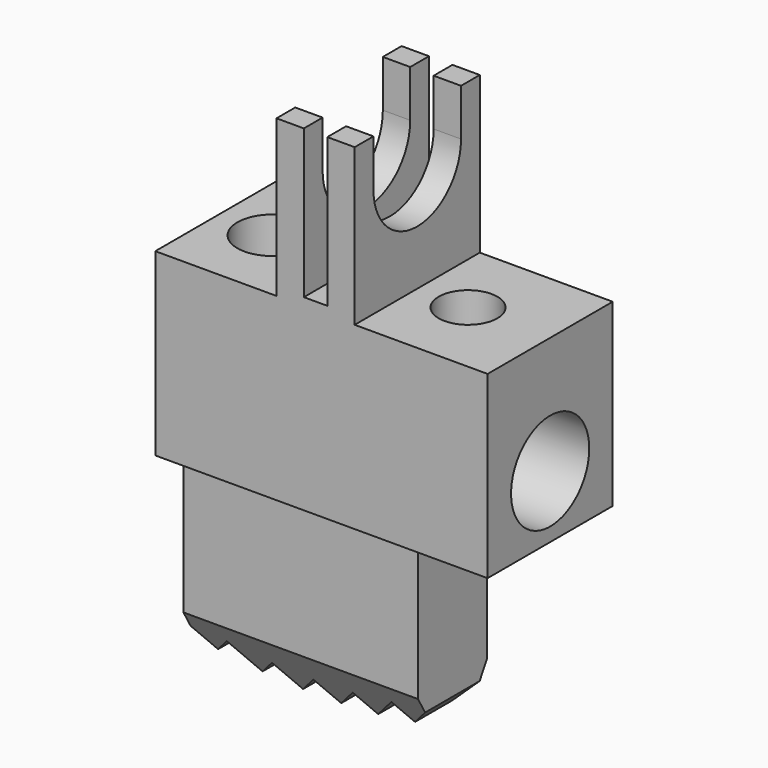
from build123d import *

# Parameters (mm, degrees)
F1_DEPTH  = 2
F0_W      = 6
F0_H      = 5.1
F2_DEPTH  = 1.1
F3_W      = 2.8
F3_H      = 0.2
F4_DEPTH  = 2
F5_R      = 1.25
F6_DEPTH  = 8.5
F7_R      = 0.75
F8_DEPTH  = 3
F9_R      = 0.9
F10_DEPTH = 7.7
F11_SIZE2 = 0.69282
F11_SIZE  = 1.2
F13_DEPTH = 12.5


with BuildPart() as f1:
    # F0 (on Front) → F1 (new body, symmetric)
    with BuildSketch(Plane.XZ):
        Polygon((-6, 5.1), (0, 5.1), (2.5, 5.1), (2.5, 9.7), (-0.9, 9.7), (-0.9, 13.7), (-1.6, 13.7), (-1.6, 9.9), (-2.2, 9.9), (-2.2, 13.7), (-2.9, 13.7), (-2.9, 9.7), (-6, 9.7), align=None)
    extrude(amount=F1_DEPTH, both=True)

    # F0 (on Front) → F2 (join, symmetric)
    with BuildSketch(Plane.XZ):
        with Locations((-3, 2.55)):
            Rectangle(F0_W, F0_H)
    extrude(amount=F2_DEPTH, both=True)

    # F3 (on face) → F4 (cut)
    with BuildSketch(Plane.YZ.offset(-0.9)):
        with Locations((0, 13.8)):
            Rectangle(F3_W, F3_H)
        with BuildLine():
            Line((-1.4, 13.7), (-1.4, 12.5))
            ThreePointArc((-1.4, 12.5), (0, 11.1), (1.4, 12.5))
            Line((1.4, 12.5), (1.4, 13.7))
            Line((1.4, 13.7), (-1.4, 13.7))
        make_face()
    extrude(amount=-F4_DEPTH, mode=Mode.SUBTRACT)

    # F5 (on face) → F6 (cut)
    with BuildSketch(Plane.YZ.offset(2.5)):
        with Locations((0, 6.7)):
            Circle(F5_R)
    extrude(amount=-F6_DEPTH, mode=Mode.SUBTRACT)

    # F7 (on face) → F8 (cut)
    with BuildSketch(Plane.XY.offset(9.7)):
        with Locations((0.4, 0)):
            Circle(F7_R)
    extrude(amount=-F8_DEPTH, mode=Mode.SUBTRACT)

    # F9 (on face) → F10 (cut)
    with BuildSketch(Plane.XY.offset(9.7)):
        with Locations((-4.6, 0)):
            Circle(F9_R)
    extrude(amount=-F10_DEPTH, mode=Mode.SUBTRACT)

    # F11
    f11_edges = [f1.edges().sort_by_distance(p)[0] for p in [
        (-3, -1.1, 0),
        (-3, 1.1, 0),
    ]]
    chamfer(f11_edges, length=F11_SIZE, length2=F11_SIZE2)

    # F12 (on Front) → F13 (cut, symmetric)
    with BuildSketch(Plane.XZ):
        Polygon((-2.511918, 0.011918), (-3, 0.5), (-3.488082, 0.011918), (-4.032431, 0.556267), (-4.478758, 0.109941), (-5.104953, 0.736136), (-5.5187, 0.322389), (-6, 0.803689), (-6, 0), (0, 0), (0, 0.803689), (-0.4813, 0.322389), (-0.895047, 0.736136), (-1.521242, 0.109941), (-1.967569, 0.556267), align=None)
    extrude(amount=F13_DEPTH, both=True, mode=Mode.SUBTRACT)


solid = f1.part
